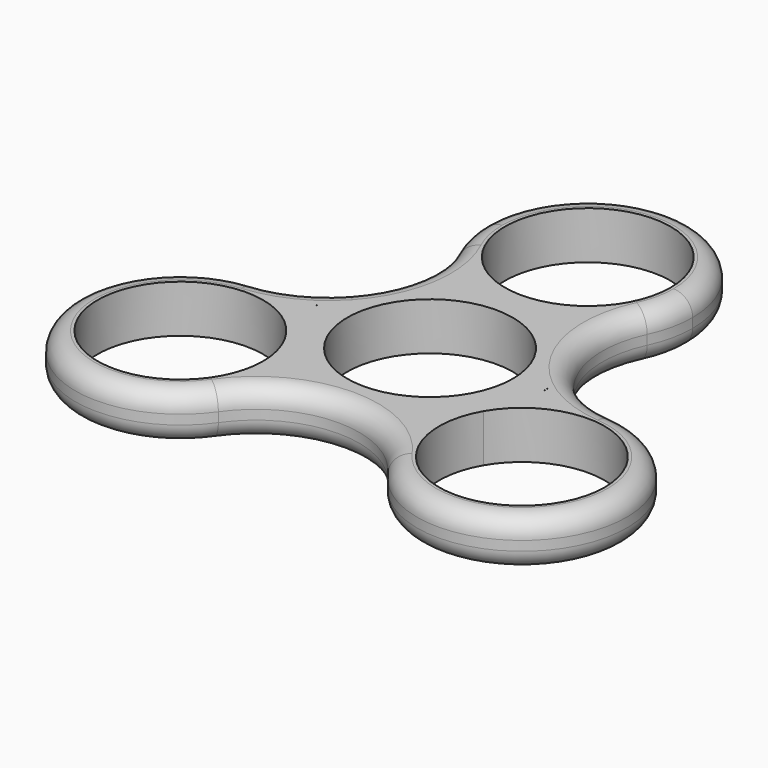
from build123d import *

# Parameters (mm, degrees)
F0_R     = 11.0236
F1_DEPTH = 6.35
F2_R     = 2.54


with BuildPart() as f1:
    # F0 (on Top) → F1 (new body)
    with BuildSketch(Plane.XY):
        with BuildLine():
            Line((11.0236, 26.2636), (13.97, 26.2636))
            ThreePointArc((13.97, 26.2636), (0, 40.2336), (-13.97, 26.2636))
            Line((-13.97, 26.2636), (-11.0236, 26.2636))
            ThreePointArc((-11.0236, 26.2636), (0, 37.2872), (11.0236, 26.2636))
        make_face()
        with BuildLine():
            ThreePointArc((-12.6523145779, 20.3407767017), (0, 12.2936), (12.6523145779, 20.3407767017))
            ThreePointArc((12.6523145779, 20.3407767017), (13.6366002848, 23.2297851287), (13.97, 26.2636))
            Line((13.97, 26.2636), (11.0236, 26.2636))
            ThreePointArc((11.0236, 26.2636), (0, 15.24), (-11.0236, 26.2636))
            Line((-11.0236, 26.2636), (-13.97, 26.2636))
            ThreePointArc((-13.97, 26.2636), (-13.6366002848, 23.2297851287), (-12.6523145779, 20.3407767017))
        make_face()
        with BuildLine():
            ThreePointArc((-11.0236, 0), (0, 11.0236), (11.0236, 0))
            Line((11.0236, 0), (15.24, 0))
            ThreePointArc((15.24, 0), (15.2241210431, -0.6955130947), (15.1765172618, -1.3895768426))
            ThreePointArc((15.1765172618, -1.3895768426), (19.3784227224, 0.4264974276), (23.9417866454, 0.7868374902))
            ThreePointArc((23.9417866454, 0.7868374902), (13.1982271537, 7.62), (12.6523145779, 20.3407767017))
            ThreePointArc((12.6523145779, 20.3407767017), (0, 12.2936), (-12.6523145779, 20.3407767017))
            ThreePointArc((-12.6523145779, 20.3407767017), (-11.5144939922, 12.4059285943), (-14.9894072898, 5.1822572461))
            Line((-14.9894072898, 5.1822572461), (-15.1688950932, 1.4704494726))
            Line((-15.1688950932, 1.4704494726), (-15.24, 0))
            Line((-15.24, 0), (-11.0236, 0))
        make_face()
        with BuildLine():
            Line((15.2583246667, 0), (15.24, 0))
            ThreePointArc((15.24, 0), (15.235423648, 0.3734518243), (15.2216973405, 0.7466793643))
            Line((15.2216973405, 0.7466793643), (15.2583246667, 0))
        make_face(mode=Mode.SUBTRACT)
        with BuildLine():
            ThreePointArc((-15.1765172618, -1.3895768426), (-15.2241210431, -0.6955130947), (-15.24, 0))
            ThreePointArc((-15.24, 0), (-15.2222133939, 0.7360838198), (-15.1688950932, 1.4704494726))
            Line((-15.1688950932, 1.4704494726), (-14.9894072898, 5.1822572461))
            ThreePointArc((-14.9894072898, 5.1822572461), (-19.0536054002, 2.1454227776), (-23.9417866454, 0.7868374902))
            ThreePointArc((-23.9417866454, 0.7868374902), (-19.3784227224, 0.4264974276), (-15.1765172618, -1.3895768426))
        make_face()
        with BuildLine():
            ThreePointArc((-8.7749447948, -13.1318), (-10.4793051328, -6.4448736746), (-15.1765172618, -1.3895768426))
            ThreePointArc((-15.1765172618, -1.3895768426), (-19.3784227224, 0.4264974276), (-23.9417866454, 0.7868374902))
            ThreePointArc((-23.9417866454, 0.7868374902), (-34.8433196857, -20.1168), (-11.2894720675, -21.127614192))
            ThreePointArc((-11.2894720675, -21.127614192), (-9.4183950913, -17.3227393934), (-8.7749447948, -13.1318))
        make_face()
        with Locations((-22.7449447948, -13.1318)):
            Circle(F0_R, mode=Mode.SUBTRACT)
        with BuildLine():
            Line((15.24, 0), (11.0236, 0))
            ThreePointArc((11.0236, 0), (0, -11.0236), (-11.0236, 0))
            Line((-11.0236, 0), (-15.24, 0))
            ThreePointArc((-15.24, 0), (-15.2241210431, -0.6955130947), (-15.1765172618, -1.3895768426))
            ThreePointArc((-15.1765172618, -1.3895768426), (-10.4793051328, -6.4448736746), (-8.7749447948, -13.1318))
            ThreePointArc((-8.7749447948, -13.1318), (-9.4183950913, -17.3227393934), (-11.2894720675, -21.127614192))
            ThreePointArc((-11.2894720675, -21.127614192), (0, -15.24), (11.2894720675, -21.127614192))
            ThreePointArc((11.2894720675, -21.127614192), (9.3198537542, -16.9954550766), (8.7916674771, -12.4484610684))
            ThreePointArc((8.7916674771, -12.4484610684), (10.646569904, -6.1468), (15.1765172618, -1.3895768426))
            ThreePointArc((15.1765172618, -1.3895768426), (15.2241210431, -0.6955130947), (15.24, 0))
        make_face()
        with BuildLine():
            ThreePointArc((23.9417866454, 0.7868374902), (19.3784227224, 0.4264974276), (15.1765172618, -1.3895768426))
            ThreePointArc((15.1765172618, -1.3895768426), (10.646569904, -6.1468), (8.7916674771, -12.4484610684))
            ThreePointArc((8.7916674771, -12.4484610684), (9.3198537542, -16.9954550766), (11.2894720675, -21.127614192))
            ThreePointArc((11.2894720675, -21.127614192), (26.9358841883, -26.4583497035), (36.7149447948, -13.1318))
            ThreePointArc((36.7149447948, -13.1318), (33.037679627, -3.6861391087), (23.9417866454, 0.7868374902))
        make_face()
        with BuildLine():
            ThreePointArc((33.7685447948, -13.1318), (19.8918271692, -23.7797799387), (13.1982271537, -7.62))
            ThreePointArc((13.1982271537, -7.62), (25.5980624204, -2.4838200613), (33.7685447948, -13.1318))
        make_face(mode=Mode.SUBTRACT)
    extrude(amount=F1_DEPTH)

    # F2
    f2_edges = [f1.edges().sort_by_distance(p)[0] for p in [
        (0, 40.2336, 6.35),
        (-13.198227, 7.62, 6.35),
        (-34.84332, -20.1168, 6.35),
        (0, -15.24, 6.35),
        (34.84332, -20.1168, 6.35),
        (13.198227, 7.62, 6.35),
        (-23.941787, 0.786837, 3.175),
        (-11.289472, -21.127614, 3.175),
        (-34.84332, -20.1168, 0),
        (11.289472, -21.127614, 3.175),
        (0, -15.24, 0),
        (23.941787, 0.786837, 3.175),
        (34.84332, -20.1168, 0),
        (12.652315, 20.340777, 3.175),
        (13.198227, 7.62, 0),
        (0, 40.2336, 0),
        (-13.198227, 7.62, 0),
    ]]
    fillet(f2_edges, radius=F2_R)


solid = f1.part
